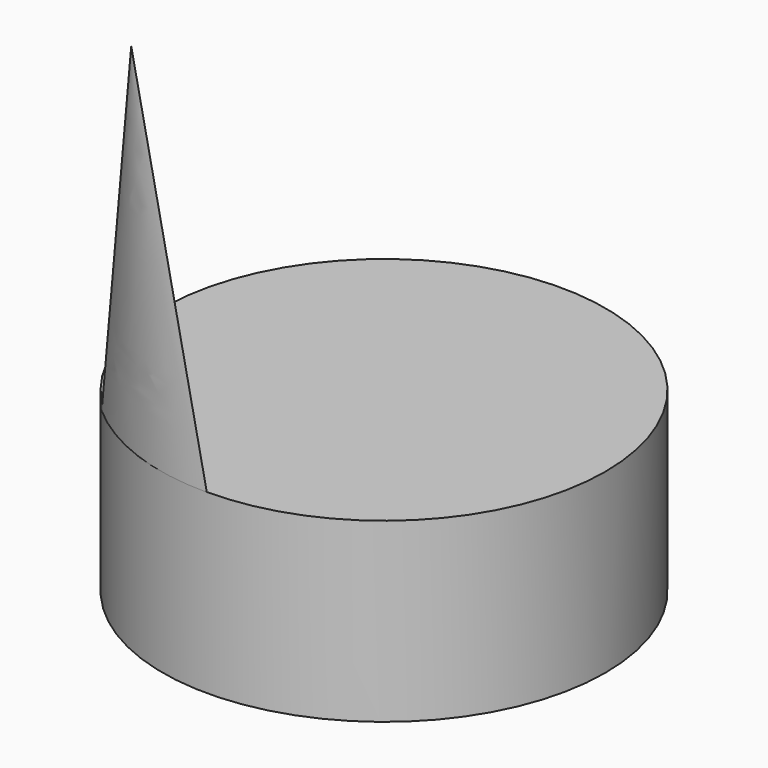
from build123d import *

# Parameters (mm, degrees)
F0_R     = 25
F1_DEPTH = 20


with BuildPart() as f1:
    # F0 (on Top) → F1 (new body)
    with BuildSketch(Plane.XY):
        Circle(F0_R)
    extrude(amount=F1_DEPTH)

    # F3 (on offset) → F6 section 0
    with BuildSketch(Plane.XY.offset(20), mode=Mode.PRIVATE) as f6_s0:
        with BuildLine():
            ThreePointArc((0, -25.021657), (-8.649234, -22.340858), (-16.935935, -18.690309))
            ThreePointArc((-16.935935, -18.690309), (-9.053213, -23.421475), (0, -25.021657))
        make_face()
    loft([f6_s0.sketch, Vertex(-10.428139, -22.65707, 60)])


solid = f1.part
